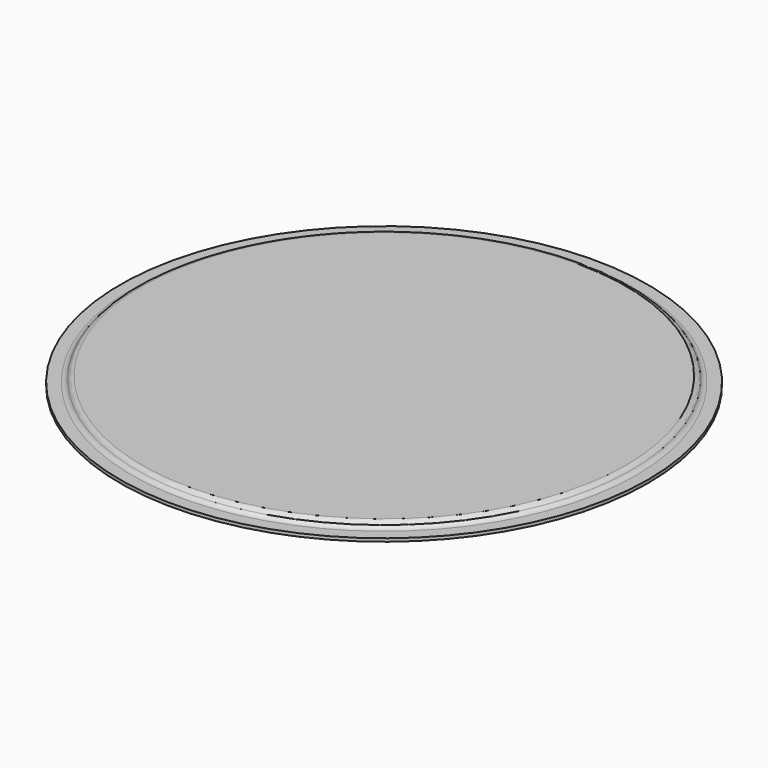
from build123d import *


with BuildPart() as f1:
    # F0 (on Front) → F1 (revolve)
    with BuildSketch(Plane.XZ):
        with BuildLine():
            Line((267.962432, 0), (0, 0))
            Line((0, 0), (0, -3.429))
            Line((0, -3.429), (266.134583, -3.429))
            ThreePointArc((266.134583, -3.429), (268.95194, -4.088218), (271.184336, -5.929))
            ThreePointArc((271.184336, -5.929), (274.622225, -8.763804), (278.960955, -9.779))
            Line((278.960955, -9.779), (292.1, -9.779))
            Line((292.1, -9.779), (292.1, -6.35))
            Line((292.1, -6.35), (278.960955, -6.35))
            ThreePointArc((278.960955, -6.35), (275.785955, -5.499261), (273.461693, -3.175))
            ThreePointArc((273.461693, -3.175), (271.137432, -0.850739), (267.962432, 0))
        make_face()
    revolve(axis=Axis((0, 0, -1.7145), (0, 0, -1)))


solid = f1.part
